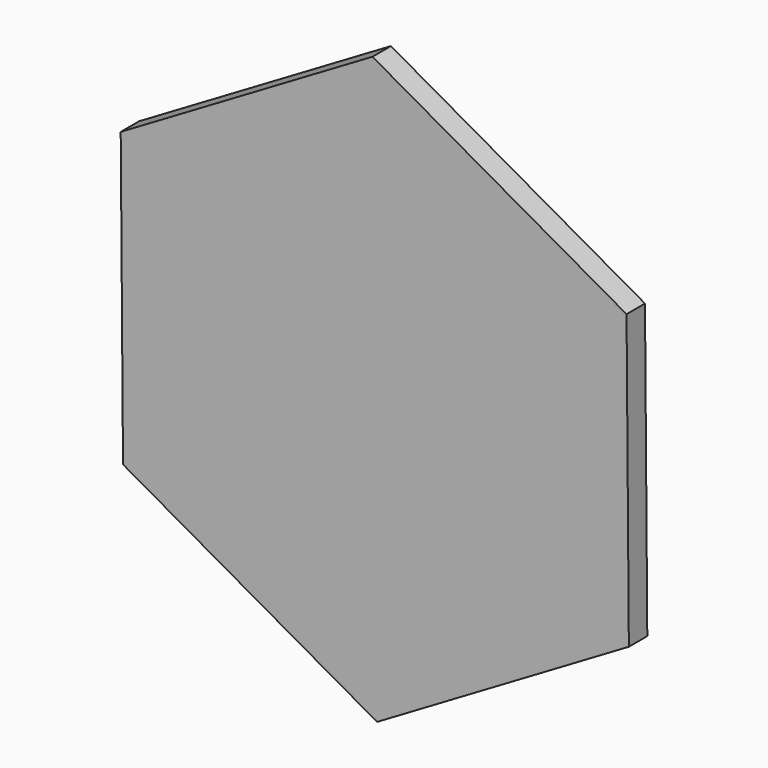
from build123d import *

# Parameters (mm, degrees)
F0_R     = 13.650636
F1_DEPTH = 2.794


with BuildPart() as f1:
    # F0 (on Front) → F1 (new body)
    with BuildSketch(Plane.XZ):
        Polygon((30.515688, 17.941761), (-0.280177, 35.398241), (-30.795865, 17.45648), (-30.515688, -17.941761), (0.280177, -35.398241), (30.795865, -17.45648), align=None)
        Circle(F0_R, mode=Mode.SUBTRACT)
        Circle(F0_R)
    extrude(amount=F1_DEPTH)


solid = f1.part
